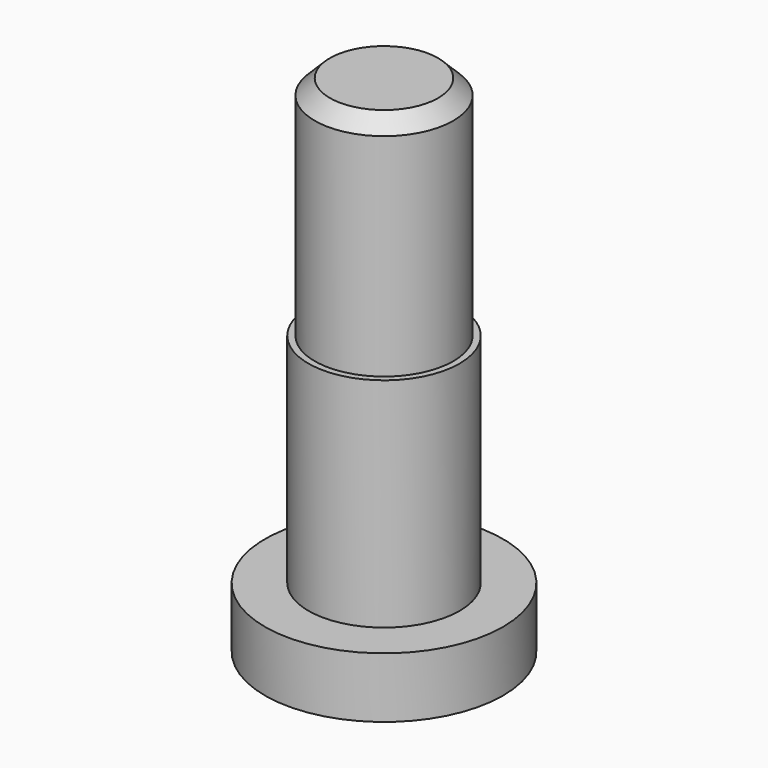
from build123d import *

# Parameters (mm, degrees)
F0_R     = 10
F0_R_2   = 6.35
F0_R_3   = 5.8166
F1_DEPTH = 5.08
F2_DEPTH = 23.368
F3_DEPTH = 42.418
F4_SIZE  = 1.27


with BuildPart() as f1:
    # F0 (on Top) → F1 (new body)
    with BuildSketch(Plane.XY):
        Circle(F0_R)
        Circle(F0_R_2, mode=Mode.SUBTRACT)
        Circle(F0_R_2)
        Circle(F0_R_3, mode=Mode.SUBTRACT)
        Circle(F0_R_3)
    extrude(amount=F1_DEPTH)

    # F0 (on Top) → F2 (join)
    with BuildSketch(Plane.XY):
        Circle(F0_R_2)
        Circle(F0_R_3, mode=Mode.SUBTRACT)
        Circle(F0_R_3)
    extrude(amount=F2_DEPTH)

    # F0 (on Top) → F3 (join)
    with BuildSketch(Plane.XY):
        Circle(F0_R_3)
    extrude(amount=F3_DEPTH)

    # F4
    f4_edges = [f1.edges().sort_by_distance(p)[0] for p in [
        (-5.8166, 0, 42.418),
    ]]
    chamfer(f4_edges, length=F4_SIZE)


solid = f1.part
